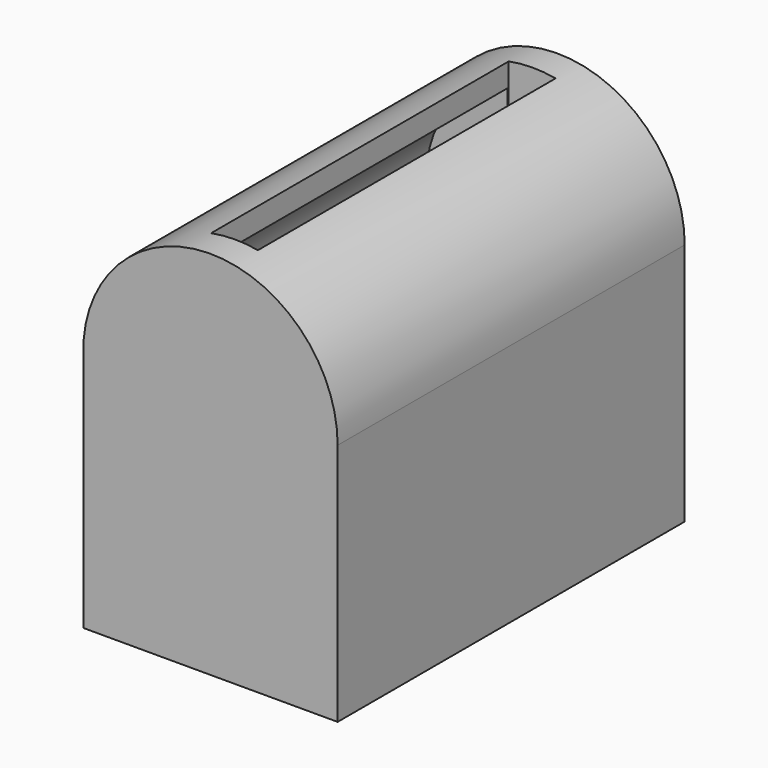
from build123d import *

# Parameters (mm, degrees)
F1_DEPTH = 49.022
F3_DEPTH = 41.656
F4_W     = 10.587335
F4_H     = 42.046845
F5_DEPTH = 108.712


with BuildPart() as f1:
    # F0 (on Front) → F1 (new body)
    with BuildSketch(Plane.XZ):
        with BuildLine():
            Line((-28.737051, 33.576977), (28.751377, 33.576977))
            ThreePointArc((28.751377, 33.576977), (-0.453801, 62.324772), (-28.737051, 32.669488))
            Line((-28.737051, 32.669488), (-28.737051, 33.576977))
        make_face()
        with BuildLine():
            ThreePointArc((-28.737051, 32.669488), (0.453801, 4.829181), (28.751377, 33.576977))
            Line((28.751377, 33.576977), (-28.737051, 33.576977))
            Line((-28.737051, 33.576977), (-28.737051, 32.669488))
        make_face()
        with BuildLine():
            Line((28.751377, -21.477165), (28.751377, 33.576977))
            ThreePointArc((28.751377, 33.576977), (0.453801, 4.829181), (-28.737051, 32.669488))
            Line((-28.737051, 32.669488), (-28.737051, -21.477165))
            Line((-28.737051, -21.477165), (28.751377, -21.477165))
        make_face()
    extrude(amount=F1_DEPTH)

    # F2 (on face) → F3 (cut)
    with BuildSketch(Plane(origin=(0, 0, 0), x_dir=(-1, 0, 0), z_dir=(0, 1, 0))):
        with BuildLine():
            ThreePointArc((23.594631, 31.736941), (23.648353, 32.656262), (23.66627, 33.576977))
            ThreePointArc((23.66627, 33.576977), (0, 57.243247), (-23.66627, 33.576977))
            Line((-23.66627, 33.576977), (23.594631, 33.576977))
            Line((23.594631, 33.576977), (23.594631, 31.736941))
        make_face()
        with BuildLine():
            Line((23.594631, 33.576977), (-23.66627, 33.576977))
            ThreePointArc((-23.66627, 33.576977), (-0.920715, 9.928623), (23.594631, 31.736941))
            Line((23.594631, 31.736941), (23.594631, 33.576977))
        make_face()
        with BuildLine():
            ThreePointArc((23.594631, 31.736941), (-0.920715, 9.928623), (-23.66627, 33.576977))
            Line((-23.66627, 33.576977), (-23.66627, -15.427259))
            Line((-23.66627, -15.427259), (23.594631, -15.427259))
            Line((23.594631, -15.427259), (23.594631, 31.736941))
        make_face()
    extrude(amount=-F3_DEPTH, mode=Mode.SUBTRACT)

    # F4 (on Top) → F5 (cut)
    with BuildSketch(Plane.XY):
        with Locations((-0.151248, -21.023422)):
            Rectangle(F4_W, F4_H)
    extrude(amount=F5_DEPTH, mode=Mode.SUBTRACT)

    # F6: F1 across plane


with BuildPart() as f1_1:
    add(f1.part)
    add(f1.part.mirror(Plane.XZ))


solid = f1_1.part
